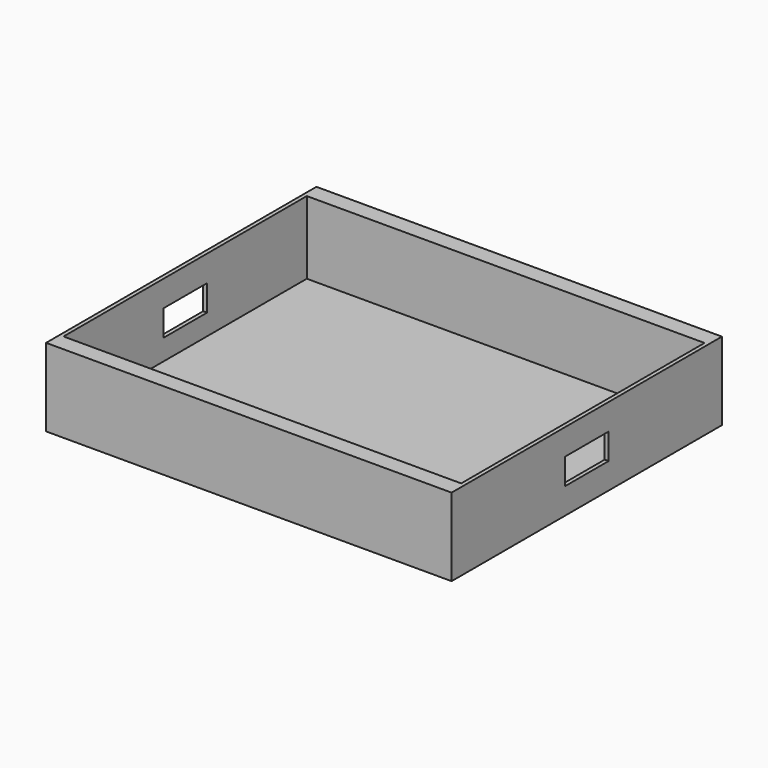
from build123d import *

# Parameters (mm, degrees)
SKETCH_W        = 78
SKETCH_H        = 65
PAD_DEPTH       = 15
SKETCH001_W     = 76.5
SKETCH001_H     = 58.5
POCKET_DEPTH    = 14
SKETCH002_W     = 10.5
SKETCH002_H     = 5
POCKET001_DEPTH = 100


with BuildPart() as part:
    # Sketch → Pad (new body)
    with BuildSketch(Plane.XY):
        Rectangle(SKETCH_W, SKETCH_H)
    extrude(amount=PAD_DEPTH)

    # Sketch001 (on Face6 of Pad) → Pocket (cut)
    with BuildSketch(Plane.XY.offset(15)):
        Rectangle(SKETCH001_W, SKETCH001_H)
    extrude(amount=-POCKET_DEPTH, mode=Mode.SUBTRACT)

    # Sketch002 (on Face3 of Pocket) → Pocket001 (cut)
    with BuildSketch(Plane.YZ.offset(39)):
        with Locations((0, 7.5)):
            Rectangle(SKETCH002_W, SKETCH002_H)
    extrude(amount=-POCKET001_DEPTH, mode=Mode.SUBTRACT)


solid = part.part
